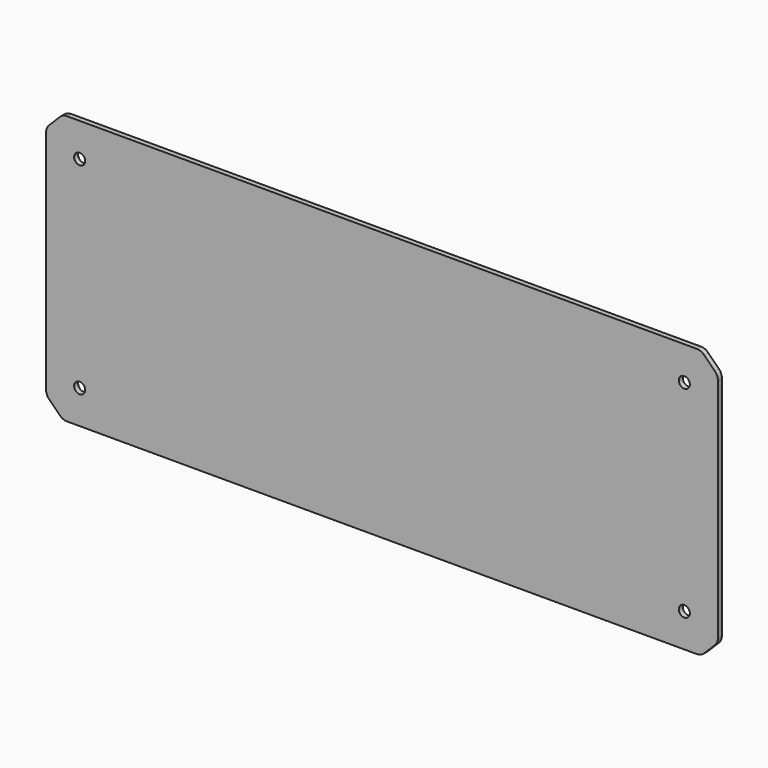
from build123d import *

# Parameters (mm, degrees)
F0_W     = 200
F0_H     = 80
F1_DEPTH = 1.5
F2_SIZE  = 5
F4_D     = 3.3
F5_R     = 3


with BuildPart() as f1:
    # F0 (on Front) → F1 (new body)
    with BuildSketch(Plane.XZ):
        Rectangle(F0_W, F0_H)
    extrude(amount=F1_DEPTH)

    # F2
    f2_edges = [f1.edges().sort_by_distance(p)[0] for p in [
        (100, -0.75, 40),
        (-100, -0.75, 40),
        (-100, -0.75, -40),
        (100, -0.75, -40),
    ]]
    chamfer(f2_edges, length=F2_SIZE)

    # F4 (through all)
    with Locations(Plane.XZ.offset(1.5)):
        with Locations((-90, 30), (-90, -30), (90, -30), (90, 30)):
            Hole(F4_D / 2)

    # F5
    f5_edges = [f1.edges().sort_by_distance(p)[0] for p in [
        (95, -0.75, 40),
        (100, -0.75, 35),
        (100, -0.75, -35),
        (95, -0.75, -40),
        (-95, -0.75, -40),
        (-100, -0.75, -35),
        (-100, -0.75, 35),
        (-95, -0.75, 40),
    ]]
    fillet(f5_edges, radius=F5_R)


solid = f1.part
